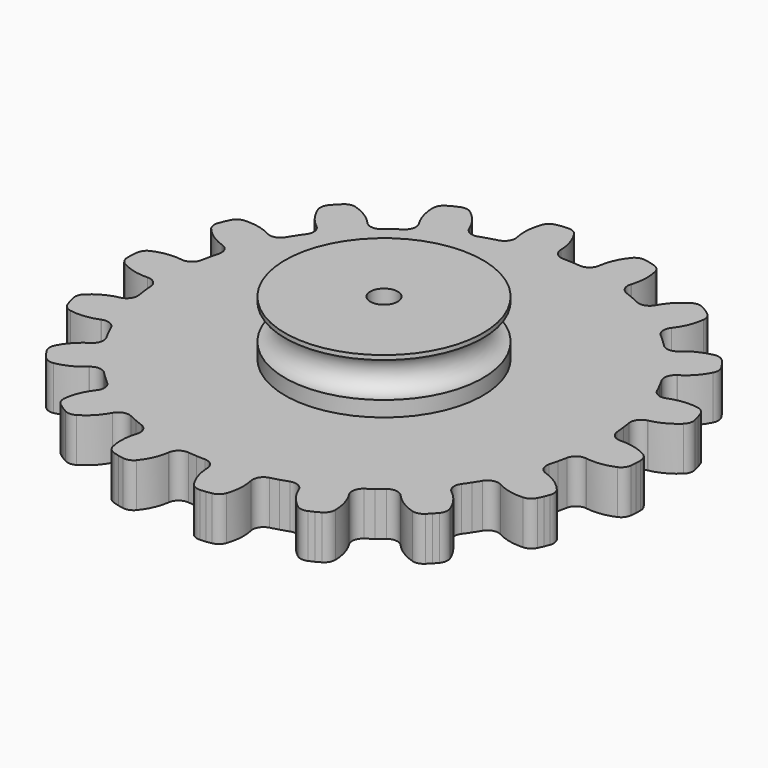
from build123d import *

# Parameters (mm, degrees)
F1_DEPTH = 4
F2_COUNT = 18
F4_R     = 1.5
F5_DEPTH = 4


with BuildPart() as f1:
    # F0 (on Top) → F1 (new body)
    with BuildSketch(Plane.XY):
        with BuildLine():
            ThreePointArc((23.992644, -0.806669), (23.859134, -0.296494), (23.484666, 0.074825))
            ThreePointArc((23.484666, 0.074825), (22.278879, 0.553036), (20.988736, 0.687722))
            Line((20.988736, 0.687722), (20.964926, 0.686942))
            ThreePointArc((20.964926, 0.686942), (20.266183, 0.940448), (19.935407, 1.606101))
            ThreePointArc((19.935407, 1.606101), (19.899671, 2.000774), (19.856122, 2.394661))
            Line((19.856122, 2.394661), (0, 0))
            Line((0, 0), (19.477674, -4.540949))
            ThreePointArc((19.477674, -4.540949), (19.563822, -4.154138), (19.642289, -3.765697))
            ThreePointArc((19.642289, -3.765697), (20.04353, -3.139988), (20.765708, -2.964015))
            Line((20.765708, -2.964015), (20.789292, -2.967382))
            ThreePointArc((20.789292, -2.967382), (22.086429, -2.973873), (23.337091, -2.629701))
            ThreePointArc((23.337091, -2.629701), (23.749738, -2.301332), (23.937967, -1.808712))
            Line((23.937967, -1.808712), (23.987181, -1.308884))
            Line((23.987181, -1.308884), (23.992644, -0.806669))
        make_face()
    extrude(amount=F1_DEPTH)


with BuildPart() as f2_1:
    # F2: instance of F1
    add(f1.part.rotate(Axis((0, 0, 2), (0, 0, -1)), 1 * 360 / F2_COUNT))


with BuildPart() as f2_2:
    # F2: instance of F1
    add(f1.part.rotate(Axis((0, 0, 2), (0, 0, -1)), 2 * 360 / F2_COUNT))


with BuildPart() as f2_3:
    # F2: instance of F1
    add(f1.part.rotate(Axis((0, 0, 2), (0, 0, -1)), 3 * 360 / F2_COUNT))


with BuildPart() as f2_4:
    # F2: instance of F1
    add(f1.part.rotate(Axis((0, 0, 2), (0, 0, -1)), 4 * 360 / F2_COUNT))


with BuildPart() as f2_5:
    # F2: instance of F1
    add(f1.part.rotate(Axis((0, 0, 2), (0, 0, -1)), 5 * 360 / F2_COUNT))


with BuildPart() as f2_6:
    # F2: instance of F1
    add(f1.part.rotate(Axis((0, 0, 2), (0, 0, -1)), 6 * 360 / F2_COUNT))


with BuildPart() as f2_7:
    # F2: instance of F1
    add(f1.part.rotate(Axis((0, 0, 2), (0, 0, -1)), 7 * 360 / F2_COUNT))


with BuildPart() as f2_8:
    # F2: instance of F1
    add(f1.part.rotate(Axis((0, 0, 2), (0, 0, -1)), 8 * 360 / F2_COUNT))


with BuildPart() as f2_9:
    # F2: instance of F1
    add(f1.part.rotate(Axis((0, 0, 2), (0, 0, -1)), 9 * 360 / F2_COUNT))


with BuildPart() as f2_10:
    # F2: instance of F1
    add(f1.part.rotate(Axis((0, 0, 2), (0, 0, -1)), 10 * 360 / F2_COUNT))


with BuildPart() as f2_11:
    # F2: instance of F1
    add(f1.part.rotate(Axis((0, 0, 2), (0, 0, -1)), 11 * 360 / F2_COUNT))


with BuildPart() as f2_12:
    # F2: instance of F1
    add(f1.part.rotate(Axis((0, 0, 2), (0, 0, -1)), 12 * 360 / F2_COUNT))


with BuildPart() as f2_13:
    # F2: instance of F1
    add(f1.part.rotate(Axis((0, 0, 2), (0, 0, -1)), 13 * 360 / F2_COUNT))


with BuildPart() as f2_14:
    # F2: instance of F1
    add(f1.part.rotate(Axis((0, 0, 2), (0, 0, -1)), 14 * 360 / F2_COUNT))


with BuildPart() as f2_15:
    # F2: instance of F1
    add(f1.part.rotate(Axis((0, 0, 2), (0, 0, -1)), 15 * 360 / F2_COUNT))


with BuildPart() as f2_16:
    # F2: instance of F1
    add(f1.part.rotate(Axis((0, 0, 2), (0, 0, -1)), 16 * 360 / F2_COUNT))


with BuildPart() as f2_17:
    # F2: instance of F1
    add(f1.part.rotate(Axis((0, 0, 2), (0, 0, -1)), 17 * 360 / F2_COUNT))


with BuildPart() as f2_6_1:
    add(f2_6.part)

    # F3: union F2_12, F2_14, F2_13, F2_9, F2_10, F2_11, F2_5, F2_16, F2_17, F2_15, F2_7, F2_8, F2_2, F2_3, F2_4, F2_1, F1
    add(f2_12.part)
    add(f2_14.part)
    add(f2_13.part)
    add(f2_9.part)
    add(f2_10.part)
    add(f2_11.part)
    add(f2_5.part)
    add(f2_16.part)
    add(f2_17.part)
    add(f2_15.part)
    add(f2_7.part)
    add(f2_8.part)
    add(f2_2.part)
    add(f2_3.part)
    add(f2_4.part)
    add(f2_1.part)
    add(f1.part)

    # F4 (on face) → F5 (cut, through all)
    with BuildSketch(Plane.XY.offset(4)):
        Circle(F4_R)
    extrude(amount=-F5_DEPTH, mode=Mode.SUBTRACT)

    # F8 (on Right) → F9 (revolve)
    with BuildSketch(Plane.YZ):
        with BuildLine():
            Line((1.25, 9), (1.25, 4))
            Line((1.25, 4), (9, 4))
            Line((9, 4), (9, 5.4))
            ThreePointArc((9, 5.4), (7.4, 7), (9, 8.6))
            Line((9, 8.6), (9, 9))
            Line((9, 9), (1.25, 9))
        make_face()
    revolve(axis=Axis((0, 0, 6.5), (0, 0, 1)))


with BuildPart() as f6_1:
    # F6: copy of F2_6
    add(f2_6_1.part)


solid = f2_6_1.part
